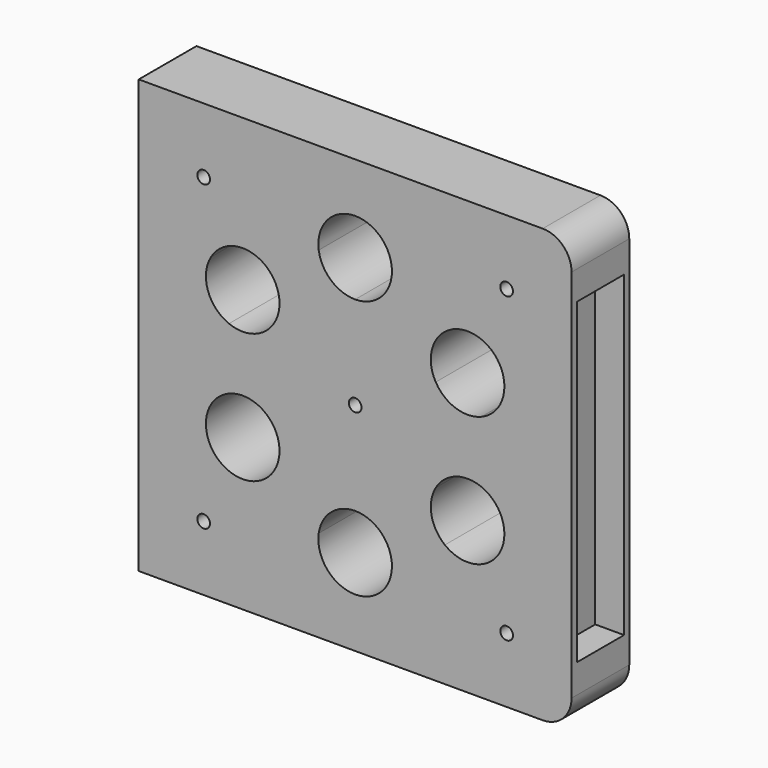
from build123d import *

# Parameters (mm, degrees)
F0_W      = 300
F0_H      = 300
F1_DEPTH  = 50
F3_DEPTH  = 50
F4_R      = 5.5
F5_DEPTH  = 2
F7_D      = 11
F7_DEPTH  = 30
F7_TIP    = 3.3047334047
F8_W      = 41
F8_H      = 220
F9_DEPTH  = 20
F10_R     = 3.5
F11_DEPTH = 50
F12_R     = 20
F13_W     = 280
F13_H     = 10
F14_DEPTH = 10
F16_D     = 8.8
F16_DEPTH = 20
F16_TIP   = 2.6437867237
F18_D     = 8.8
F18_DEPTH = 20
F18_TIP   = 2.6437867237
F19_R     = 7
F20_DEPTH = 1


with BuildPart() as f1:
    # F0 (on Front) → F1 (new body)
    with BuildSketch(Plane.XZ):
        Rectangle(F0_W, F0_H)
    extrude(amount=F1_DEPTH)

    # F2 (on face) → F3 (cut)
    with BuildSketch(Plane.XZ.offset(50)):
        with BuildLine():
            ThreePointArc((55.8586385441, 32.25), (69.609943325, 20.8997497965), (87.4351784027, 21.3328286376))
            ThreePointArc((87.4351784027, 21.3328286376), (83.5311930437, 33.5043249252), (77.9422863406, 45))
            Line((77.9422863406, 45), (55.8586385441, 32.25))
        make_face()
        with BuildLine():
            ThreePointArc((77.9422863406, 45), (83.5311930437, 33.5043249252), (87.4351784027, 21.3328286376))
            ThreePointArc((87.4351784027, 21.3328286376), (99.0647713694, 30.7139709433), (103.4422863406, 45))
            ThreePointArc((103.4422863406, 45), (102.573394911, 51.5998856501), (100.0259341371, 57.75))
            Line((100.0259341371, 57.75), (77.9422863406, 45))
        make_face()
        with BuildLine():
            Line((55.8586385441, 32.25), (77.9422863406, 45))
            ThreePointArc((77.9422863406, 45), (70.7811930437, 55.5879727217), (62.1923607361, 65.0546713624))
            ThreePointArc((62.1923607361, 65.0546713624), (52.904685919, 49.8341043772), (55.8586385441, 32.25))
        make_face()
        with BuildLine():
            ThreePointArc((62.1923607361, 65.0546713624), (70.7811930437, 55.5879727217), (77.9422863406, 45))
            Line((77.9422863406, 45), (100.0259341371, 57.75))
            ThreePointArc((100.0259341371, 57.75), (82.7763907178, 70.0376004216), (62.1923607361, 65.0546713624))
        make_face()
        with BuildLine():
            ThreePointArc((0, 90), (12.75, 89.0922976469), (25.2428176666, 86.3875))
            ThreePointArc((25.2428176666, 86.3875), (25.4356231543, 88.1891784321), (25.5, 90))
            ThreePointArc((25.5, 90), (-1.8108215679, 115.4356231543), (-25.2428176666, 86.3875))
            ThreePointArc((-25.2428176666, 86.3875), (-12.75, 89.0922976469), (0, 90))
        make_face()
        with BuildLine():
            ThreePointArc((0, 64.5), (16.705257406, 70.7338541737), (25.2428176666, 86.3875))
            ThreePointArc((25.2428176666, 86.3875), (12.75, 89.0922976469), (0, 90))
            Line((0, 90), (0, 64.5))
        make_face()
        with BuildLine():
            ThreePointArc((-25.2428176666, 86.3875), (-16.705257406, 70.7338541737), (0, 64.5))
            Line((0, 64.5), (0, 90))
            ThreePointArc((0, 90), (-12.75, 89.0922976469), (-25.2428176666, 86.3875))
        make_face()
        with BuildLine():
            Line((-77.9422863406, 45), (-55.8586385441, 32.25))
            ThreePointArc((-55.8586385441, 32.25), (-53.3111777702, 38.4001143499), (-52.4422863406, 45))
            ThreePointArc((-52.4422863406, 45), (-55.0089797439, 56.1495940977), (-62.1923607361, 65.0546713624))
            ThreePointArc((-62.1923607361, 65.0546713624), (-70.7811930437, 55.5879727217), (-77.9422863406, 45))
        make_face()
        with BuildLine():
            Line((-100.0259341371, 57.75), (-77.9422863406, 45))
            ThreePointArc((-77.9422863406, 45), (-70.7811930437, 55.5879727217), (-62.1923607361, 65.0546713624))
            ThreePointArc((-62.1923607361, 65.0546713624), (-82.7763907178, 70.0376004216), (-100.0259341371, 57.75))
        make_face()
        with BuildLine():
            ThreePointArc((-87.4351784027, 21.3328286376), (-69.609943325, 20.8997497965), (-55.8586385441, 32.25))
            Line((-55.8586385441, 32.25), (-77.9422863406, 45))
            ThreePointArc((-77.9422863406, 45), (-83.5311930437, 33.5043249252), (-87.4351784027, 21.3328286376))
        make_face()
        with BuildLine():
            ThreePointArc((-87.4351784027, 21.3328286376), (-83.5311930437, 33.5043249252), (-77.9422863406, 45))
            Line((-77.9422863406, 45), (-100.0259341371, 57.75))
            ThreePointArc((-100.0259341371, 57.75), (-102.0425365441, 36.6676569844), (-87.4351784027, 21.3328286376))
        make_face()
        with BuildLine():
            ThreePointArc((-62.1923607361, -65.0546713624), (-70.7811930437, -55.5879727217), (-77.9422863406, -45))
            ThreePointArc((-77.9422863406, -45), (-83.5311930437, -33.5043249252), (-87.4351784027, -21.3328286376))
            ThreePointArc((-87.4351784027, -21.3328286376), (-100.0259341371, -57.75), (-62.1923607361, -65.0546713624))
        make_face()
        with BuildLine():
            Line((-77.9422863406, -45), (-55.8586385441, -32.25))
            ThreePointArc((-55.8586385441, -32.25), (-69.609943325, -20.8997497965), (-87.4351784027, -21.3328286376))
            ThreePointArc((-87.4351784027, -21.3328286376), (-83.5311930437, -33.5043249252), (-77.9422863406, -45))
        make_face()
        with BuildLine():
            ThreePointArc((-52.4422863406, -45), (-53.3111777702, -38.4001143499), (-55.8586385441, -32.25))
            Line((-55.8586385441, -32.25), (-77.9422863406, -45))
            ThreePointArc((-77.9422863406, -45), (-70.7811930437, -55.5879727217), (-62.1923607361, -65.0546713624))
            ThreePointArc((-62.1923607361, -65.0546713624), (-55.0089797439, -56.1495940977), (-52.4422863406, -45))
        make_face()
        with BuildLine():
            ThreePointArc((25.5, -90), (25.4356231543, -88.1891784321), (25.2428176666, -86.3875))
            ThreePointArc((25.2428176666, -86.3875), (12.75, -89.0922976469), (0, -90))
            ThreePointArc((0, -90), (-12.75, -89.0922976469), (-25.2428176666, -86.3875))
            ThreePointArc((-25.2428176666, -86.3875), (-1.8108215679, -115.4356231543), (25.5, -90))
        make_face()
        with BuildLine():
            Line((0, -90), (0, -64.5))
            ThreePointArc((0, -64.5), (-16.705257406, -70.7338541737), (-25.2428176666, -86.3875))
            ThreePointArc((-25.2428176666, -86.3875), (-12.75, -89.0922976469), (0, -90))
        make_face()
        with BuildLine():
            ThreePointArc((25.2428176666, -86.3875), (16.705257406, -70.7338541737), (0, -64.5))
            Line((0, -64.5), (0, -90))
            ThreePointArc((0, -90), (12.75, -89.0922976469), (25.2428176666, -86.3875))
        make_face()
        with BuildLine():
            ThreePointArc((103.4422863406, -45), (99.0647713694, -30.7139709433), (87.4351784027, -21.3328286376))
            ThreePointArc((87.4351784027, -21.3328286376), (83.5311930437, -33.5043249252), (77.9422863406, -45))
            ThreePointArc((77.9422863406, -45), (70.7811930437, -55.5879727217), (62.1923607361, -65.0546713624))
            ThreePointArc((62.1923607361, -65.0546713624), (89.0918804383, -67.9333065967), (103.4422863406, -45))
        make_face()
        with BuildLine():
            ThreePointArc((62.1923607361, -65.0546713624), (70.7811930437, -55.5879727217), (77.9422863406, -45))
            Line((77.9422863406, -45), (55.8586385441, -32.25))
            ThreePointArc((55.8586385441, -32.25), (52.904685919, -49.8341043772), (62.1923607361, -65.0546713624))
        make_face()
        with BuildLine():
            ThreePointArc((77.9422863406, -45), (83.5311930437, -33.5043249252), (87.4351784027, -21.3328286376))
            ThreePointArc((87.4351784027, -21.3328286376), (69.609943325, -20.8997497965), (55.8586385441, -32.25))
            Line((55.8586385441, -32.25), (77.9422863406, -45))
        make_face()
    extrude(amount=-F3_DEPTH, mode=Mode.SUBTRACT)

    # F4 (on face) → F5 (cut)
    with BuildSketch(Plane(origin=(-150, 0, 0), x_dir=(0, -1, 0), z_dir=(-1, 0, 0))):
        with Locations((25, 0)):
            Circle(F4_R)
    extrude(amount=-F5_DEPTH, mode=Mode.SUBTRACT)

    # F7
    with Locations(Plane(origin=(-150, 0, 0), x_dir=(0, -1, 0), z_dir=(-1, 0, 0))):
        with Locations((25, 80), (25, -80)):
            Hole(F7_D / 2, depth=F7_DEPTH)
            with Locations((0, 0, -(F7_DEPTH + F7_TIP / 2))):  # 118° drill point
                Cone(0, F7_D / 2, F7_TIP, mode=Mode.SUBTRACT)

    # F8 (on face) → F9 (cut)
    with BuildSketch(Plane.YZ.offset(150)):
        with Locations((-25, 0)):
            Rectangle(F8_W, F8_H)
    extrude(amount=-F9_DEPTH, mode=Mode.SUBTRACT)

    # F10 (on face) → F11 (cut)
    with BuildSketch(Plane.XZ.offset(50)):
        with Locations((-105, 105)):
            Circle(F10_R)
        with Locations((105, 105)):
            Circle(F10_R)
        with Locations((-105, -105)):
            Circle(F10_R)
        with Locations((105, -105)):
            Circle(F10_R)
        Circle(F10_R)
    extrude(amount=-F11_DEPTH, mode=Mode.SUBTRACT)

    # F12
    f12_edges = [f1.edges().sort_by_distance(p)[0] for p in [
        (150, -25, 150),
        (150, -25, -150),
    ]]
    fillet(f12_edges, radius=F12_R)

    # F13 (on face) → F14 (cut)
    with BuildSketch(Plane(origin=(0, 0, -150), x_dir=(1, 0, 0), z_dir=(0, 0, -1))):
        with Locations((-10, 25)):
            Rectangle(F13_W, F13_H)
    extrude(amount=-F14_DEPTH, mode=Mode.SUBTRACT)

    # F16
    with Locations(Plane.XZ.offset(50)):
        with Locations((-105, 105), (105, 105), (0, 0), (-105, -105), (105, -105)):
            Hole(F16_D / 2, depth=F16_DEPTH)
            with Locations((0, 0, -(F16_DEPTH + F16_TIP / 2))):  # 118° drill point
                Cone(0, F16_D / 2, F16_TIP, mode=Mode.SUBTRACT)

    # F18
    with Locations(Plane(origin=(0, 0, 0), x_dir=(-1, 0, 0), z_dir=(0, 1, 0))):
        with Locations((-105, 105), (105, 105), (0, 0), (-105, -105), (105, -105)):
            Hole(F18_D / 2, depth=F18_DEPTH)
            with Locations((0, 0, -(F18_DEPTH + F18_TIP / 2))):  # 118° drill point
                Cone(0, F18_D / 2, F18_TIP, mode=Mode.SUBTRACT)

    # F19 (on face) → F20 (cut)
    with BuildSketch(Plane(origin=(-150, 0, 0), x_dir=(0, -1, 0), z_dir=(-1, 0, 0))):
        with Locations((25, 80)):
            Circle(F19_R)
        with Locations((25, -80)):
            Circle(F19_R)
    extrude(amount=-F20_DEPTH, mode=Mode.SUBTRACT)


solid = f1.part
